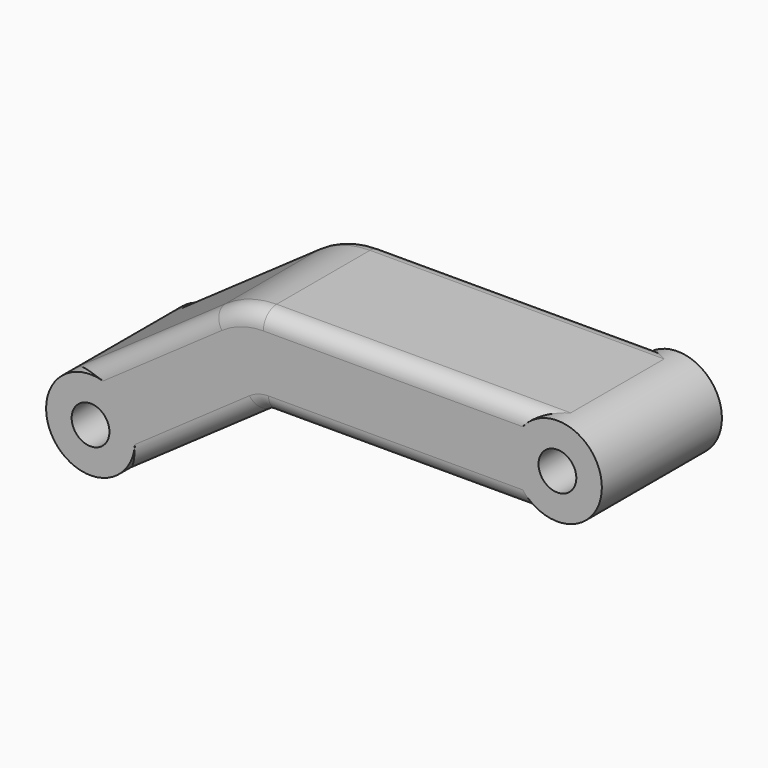
from build123d import *

# Parameters (mm, degrees)
SKETCH007_R   = 1.7
PAD019_DEPTH  = 13.5
FILLET006_R   = 1.5
SKETCH035_R   = 4
SKETCH035_R_2 = 1.7
PAD020_DEPTH  = 13.5


with BuildPart() as part:
    # Sketch007 → Pad019 (new body)
    with BuildSketch(Plane(origin=(0, 19.25, 0), x_dir=(-1, 0, 0), z_dir=(0, 1, 0))):
        with BuildLine():
            ThreePointArc((12, 26), (8, 22), (12, 18))
            Line((12, 18), (37.984377, 18))
            ThreePointArc((38.844741, 17.728728), (38.435435, 17.930575), (37.984377, 18))
            Line((38.844741, 17.728728), (51.705713, 8.723378))
            ThreePointArc((51.705713, 8.723378), (57.276616, 9.705705), (56.294304, 15.27661))
            Line((43.045936, 24.553216), (56.294304, 15.27661))
            ThreePointArc((43.045936, 24.553216), (40.862971, 25.629736), (38.457325, 26))
            Line((12, 26), (38.457325, 26))
        make_face()
        with Locations((12, 22)):
            Circle(SKETCH007_R, mode=Mode.SUBTRACT)
        with Locations((54, 12)):
            Circle(SKETCH007_R, mode=Mode.SUBTRACT)
    extrude(amount=PAD019_DEPTH)

    # Fillet006
    fillet006_edges = [part.edges().sort_by_distance(p)[0] for p in [
        (-49.67012, 32.75, 19.914913),
        (-49.67012, 19.25, 19.914913),
    ]]
    fillet(fillet006_edges, radius=FILLET006_R)

    # Sketch035 (on Face12 of Fillet006) → Pad020 (join)
    with BuildSketch(Plane(origin=(0, 32.75, 0), x_dir=(-1, 0, 0), z_dir=(0, 1, 0))):
        with Locations((54, 12)):
            Circle(SKETCH035_R)
        with Locations((54, 12)):
            Circle(SKETCH035_R_2, mode=Mode.SUBTRACT)
        with Locations((12, 22)):
            Circle(SKETCH035_R)
        with Locations((12, 22)):
            Circle(SKETCH035_R_2, mode=Mode.SUBTRACT)
    extrude(amount=-PAD020_DEPTH)


with BuildPart() as part_1:
    # Body002 placement: moved
    add(part.part.moved(Location((0, -5, 0))))


with BuildPart() as part_2:
    # Clone163 placement: moved
    add(part_1.part.moved(Location((-47, -47, 8))))


solid = part_2.part
